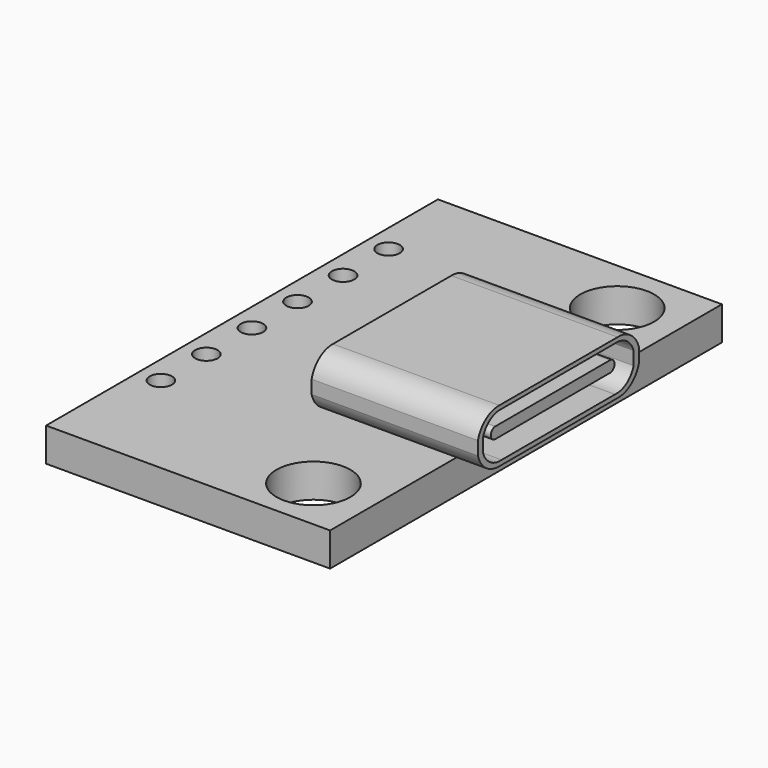
from build123d import *

# Parameters (mm, degrees)
SKETCH043_W             = 21.85
SKETCH043_H             = 12.67
PAD019_DEPTH            = 1.5
PAD020_DEPTH            = 7.42
SKETCH045_R             = 1.65
POCKET018_DEPTH         = 5
SKETCH046_R             = 0.5
POCKET019_DEPTH         = 5
POCKET020_DEPTH         = 6
PAD021_DEPTH            = 5
BODY017_PLACEMENT_ANGLE = 90


with BuildPart() as part:
    # Sketch043 → Pad019 (new body)
    with BuildSketch(Plane.XY):
        with Locations((10.925, 6.335)):
            Rectangle(SKETCH043_W, SKETCH043_H)
    extrude(amount=PAD019_DEPTH)

    # Sketch044 → Pad020 (join)
    with BuildSketch(Plane.XZ.offset(-6.83)):
        with BuildLine():
            Line((6.6, 2.396035), (6.6, 2.996035))
            ThreePointArc((7.79, 3.89207), (7.038545, 3.651836), (6.6, 2.996035))
            Line((7.79, 3.89207), (14.39, 3.89207))
            ThreePointArc((15.58, 2.996035), (15.141455, 3.651836), (14.39, 3.89207))
            Line((15.58, 2.396035), (15.58, 2.996035))
            ThreePointArc((14.39, 1.5), (15.141455, 1.740234), (15.58, 2.396035))
            Line((7.79, 1.5), (14.39, 1.5))
            ThreePointArc((6.6, 2.396035), (7.038545, 1.740234), (7.79, 1.5))
        make_face()
    extrude(amount=-PAD020_DEPTH)

    # Sketch045 → Pocket018 (cut)
    with BuildSketch(Plane.XY):
        with Locations((2.5, 10)):
            Circle(SKETCH045_R)
        with Locations((19.44, 10)):
            Circle(SKETCH045_R)
    extrude(amount=POCKET018_DEPTH, mode=Mode.SUBTRACT)

    # Sketch046 → Pocket019 (cut)
    with BuildSketch(Plane.XY):
        with Locations((4, 1)):
            Circle(SKETCH046_R)
        with Locations((6.54, 1)):
            Circle(SKETCH046_R)
        with Locations((9.08, 1)):
            Circle(SKETCH046_R)
        with Locations((11.62, 1)):
            Circle(SKETCH046_R)
        with Locations((14.16, 1)):
            Circle(SKETCH046_R)
        with Locations((16.7, 1)):
            Circle(SKETCH046_R)
    extrude(amount=POCKET019_DEPTH, mode=Mode.SUBTRACT)

    # Sketch047 → Pocket020 (cut)
    with BuildSketch(Plane.XZ.offset(-9)):
        with BuildLine():
            Line((6.9, 2.402006), (6.9, 3.002006))
            ThreePointArc((7.935662, 3.704011), (7.295255, 3.533843), (6.9, 3.002006))
            Line((7.935662, 3.704011), (14.264338, 3.704011))
            ThreePointArc((15.3, 3.002006), (14.904745, 3.533843), (14.264338, 3.704011))
            Line((15.3, 2.402006), (15.3, 3.002006))
            ThreePointArc((14.264338, 1.7), (14.904745, 1.870168), (15.3, 2.402006))
            Line((7.935662, 1.7), (14.264338, 1.7))
            ThreePointArc((6.9, 2.402006), (7.295255, 1.870168), (7.935662, 1.7))
        make_face()
    extrude(amount=-POCKET020_DEPTH, mode=Mode.SUBTRACT)

    # Sketch048 → Pad021 (join)
    with BuildSketch(Plane.XZ.offset(-9)):
        with BuildLine():
            ThreePointArc((7.9, 2.95), (7.65, 2.7), (7.9, 2.45))
            Line((7.9, 2.45), (14.3, 2.45))
            ThreePointArc((14.3, 2.45), (14.55, 2.7), (14.3, 2.95))
            Line((14.3, 2.95), (7.9, 2.95))
        make_face()
    extrude(amount=-PAD021_DEPTH)


with BuildPart() as part_1:
    # Body017 placement: moved
    add(part.part.moved(Location((28, 11.1, 7))).rotate(Axis((28, 11.1, 7), (0, 0, -1)), BODY017_PLACEMENT_ANGLE))


solid = part_1.part
